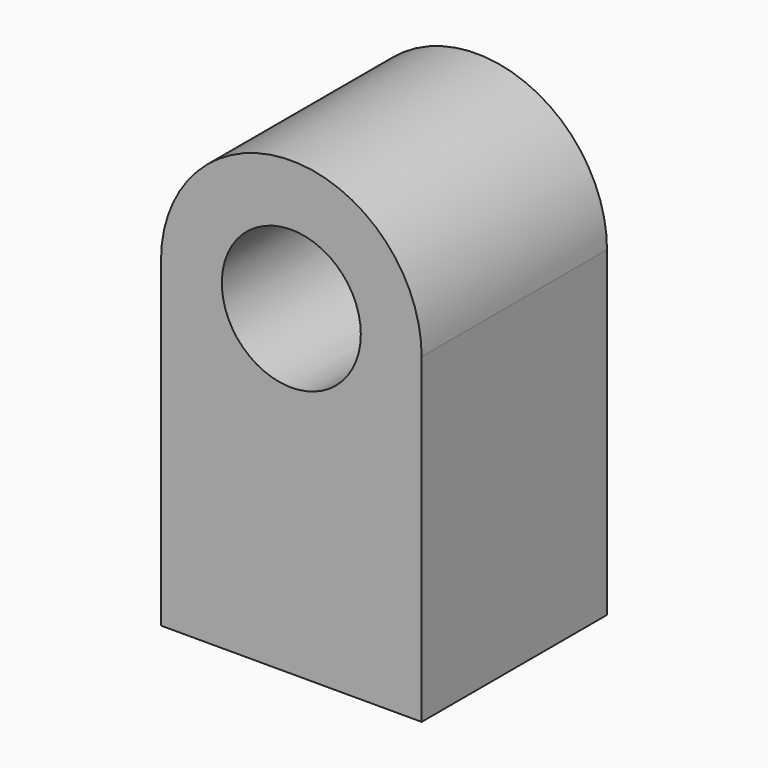
from build123d import *

# Parameters (mm, degrees)
F0_R     = 12
F1_DEPTH = 40
F3_D     = 18.5
F3_DEPTH = 38
F3_TIP   = 5.557960726


with BuildPart() as f1:
    # F0 (on Front) → F1 (new body)
    with BuildSketch(Plane.XZ):
        with BuildLine():
            Line((-22.5, -39), (22.5, -39))
            Line((22.5, -39), (22.5, 16.5))
            ThreePointArc((22.5, 16.5), (0, 39), (-22.5, 16.5))
            Line((-22.5, 16.5), (-22.5, -39))
        make_face()
        with Locations((0, 16.5)):
            Circle(F0_R, mode=Mode.SUBTRACT)
    extrude(amount=F1_DEPTH)

    # F3
    with Locations(Plane(origin=(0, 0, -39), x_dir=(1, 0, 0), z_dir=(0, 0, -1))):
        with Locations((0, 20)):
            Hole(F3_D / 2, depth=F3_DEPTH)
            with Locations((0, 0, -(F3_DEPTH + F3_TIP / 2))):  # 118° drill point
                Cone(0, F3_D / 2, F3_TIP, mode=Mode.SUBTRACT)


solid = f1.part
